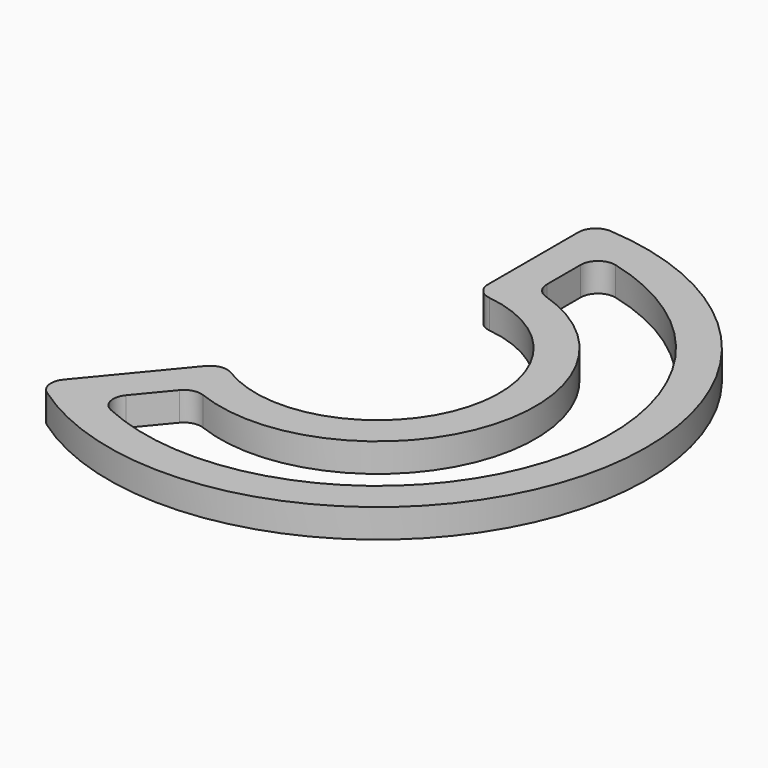
from build123d import *

# Parameters (mm, degrees)
F1_DEPTH = 0.8
F2_R     = 0.482843


with BuildPart() as f1:
    # F0 (on Top) → F1 (new body)
    with BuildSketch(Plane.XY):
        with BuildLine():
            Line((-2.119716, -2.658346), (-4.733015, -5.817952))
            ThreePointArc((-4.733015, -5.817952), (7.066988, -2.511509), (0, 7.5))
            Line((0, 7.5), (0, 3.4))
            ThreePointArc((0, 3.4), (3.209235, -1.122859), (-2.119716, -2.658346))
        make_face()
        with BuildLine():
            ThreePointArc((1, 6.422616), (6.126211, -2.17245), (-3.2697, -5.617745))
            Line((-3.2697, -5.617745), (-1.904096, -3.966663))
            ThreePointArc((-1.904096, -3.966663), (4.150451, -1.460738), (1, 4.284857))
            Line((1, 4.284857), (1, 6.422616))
        make_face(mode=Mode.SUBTRACT)
    extrude(amount=F1_DEPTH)

    # F2
    f2_edges = [f1.edges().sort_by_distance(p)[0] for p in [
        (-3.2697, -5.617745, 0.4),
        (-1.904096, -3.966663, 0.4),
        (1, 4.284857, 0.4),
        (1, 6.422616, 0.4),
        (0, 3.4, 0.4),
        (-2.119716, -2.658346, 0.4),
        (-4.733015, -5.817952, 0.4),
        (0, 7.5, 0.4),
    ]]
    fillet(f2_edges, radius=F2_R)


solid = f1.part
